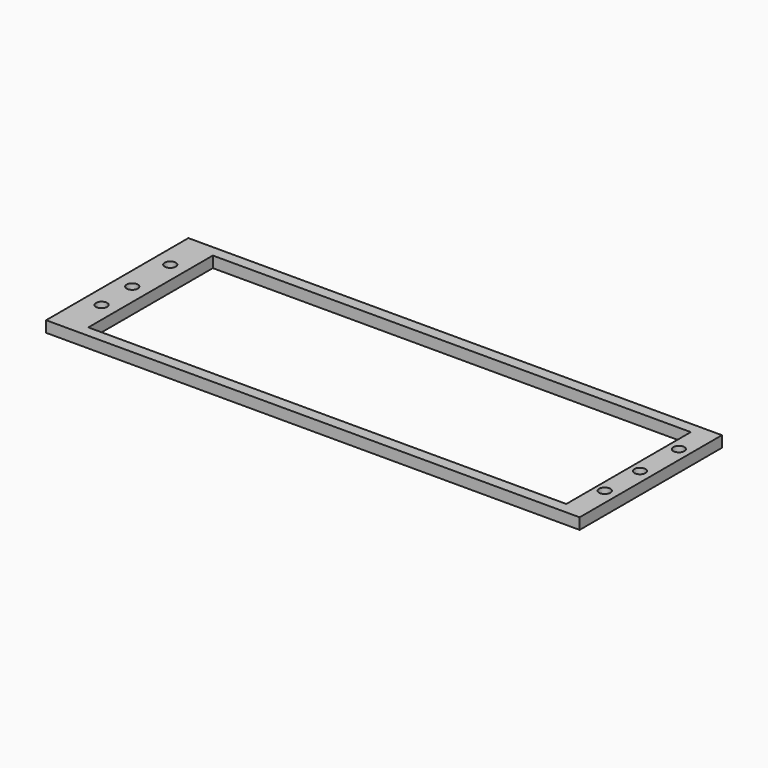
from build123d import *

# Parameters (mm, degrees)
F0_W     = 609.6
F0_H     = 203.2
F0_W_2   = 546.1
F0_H_2   = 177.8
F1_DEPTH = 6.35
F3_D     = 12.7
F5_D     = 12.7


with BuildPart() as f1:
    # F0 (on Top) → F1 (new body, symmetric)
    with BuildSketch(Plane.XY):
        with Locations((64.358067, 47.583953)):
            Rectangle(F0_W, F0_H)
        with Locations((70.708067, 47.583953)):
            Rectangle(F0_W_2, F0_H_2, mode=Mode.SUBTRACT)
    extrude(amount=F1_DEPTH, both=True)

    # F3 (through all)
    with Locations(Plane.XY.offset(6.35)):
        with Locations((-221.025839, 99.038169), (-221.025839, 44.781234), (-220.216036, 0)):
            Hole(F3_D / 2)

    # F5 (through all)
    with Locations(Plane.XY.offset(6.35)):
        with Locations((355.980128, 104.1537), (355.303496, 49.347699), (354.626894, 0)):
            Hole(F5_D / 2)


solid = f1.part
